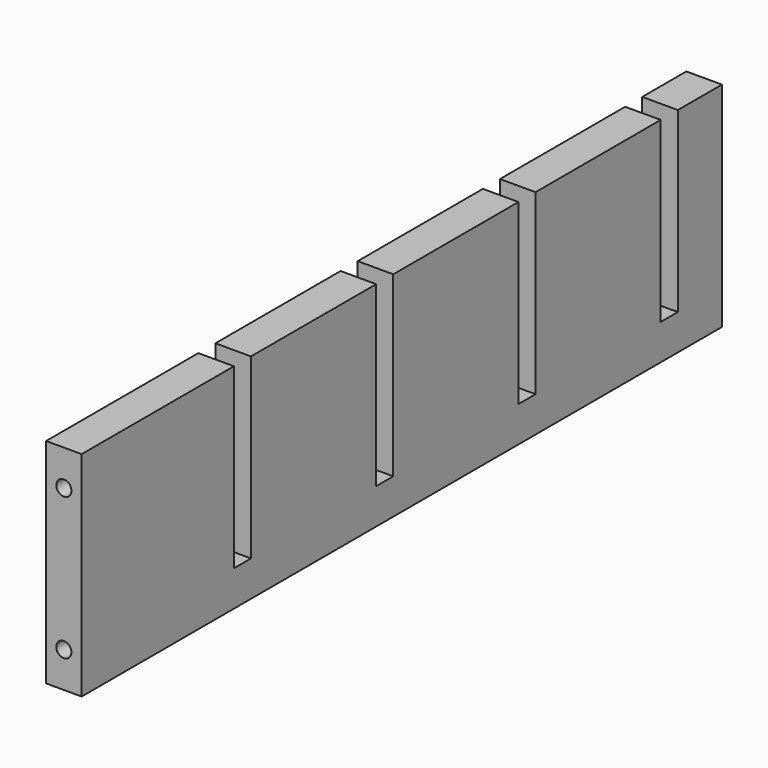
from build123d import *

# Parameters (mm, degrees)
F0_W     = 6.35
F0_H     = 142.875
F1_DEPTH = 38.1
F2_W     = 3.81
F2_H     = 31.75
F3_DEPTH = 6.351
F5_D     = 2.7051
F5_DEPTH = 15.0876
F5_TIP   = 0.8126940303
F8_D     = 2.7051
F8_DEPTH = 14.224
F8_TIP   = 0.8126940303
F9_D     = 2.7051
F9_DEPTH = 8.89
F9_TIP   = 0.8126940303


with BuildPart() as f1:
    # F0 (on Top) → F1 (new body)
    with BuildSketch(Plane.XY):
        Rectangle(F0_W, F0_H)
    extrude(amount=F1_DEPTH)

    # F2 (on face) → F3 (cut, through all)
    with BuildSketch(Plane(origin=(-3.175, 0, 0), x_dir=(0, -1, 0), z_dir=(-1, 0, 0))):
        with Locations((-59.69, 22.225)):
            Rectangle(F2_W, F2_H)
        with Locations((-27.94, 22.225)):
            Rectangle(F2_W, F2_H)
        with Locations((3.81, 22.225)):
            Rectangle(F2_W, F2_H)
        with Locations((35.56, 22.225)):
            Rectangle(F2_W, F2_H)
    extrude(amount=-F3_DEPTH, mode=Mode.SUBTRACT)

    # F5
    with Locations(Plane(origin=(0, 0, 0), x_dir=(1, 0, 0), z_dir=(0, 0, -1))):
        with Locations((0, 46.0375), (0, -46.0375)):
            Hole(F5_D / 2, depth=F5_DEPTH)
            with Locations((0, 0, -(F5_DEPTH + F5_TIP / 2))):  # 118° drill point
                Cone(0, F5_D / 2, F5_TIP, mode=Mode.SUBTRACT)

    # F8
    with Locations(Plane.XZ.offset(71.4375)):
        with Locations((0, 31.75), (0, 6.35)):
            Hole(F8_D / 2, depth=F8_DEPTH)
            with Locations((0, 0, -(F8_DEPTH + F8_TIP / 2))):  # 118° drill point
                Cone(0, F8_D / 2, F8_TIP, mode=Mode.SUBTRACT)

    # F9
    with Locations(Plane(origin=(0, 71.4375, 0), x_dir=(-1, 0, 0), z_dir=(0, 1, 0))):
        with Locations((0, 31.75), (0, 6.35)):
            Hole(F9_D / 2, depth=F9_DEPTH)
            with Locations((0, 0, -(F9_DEPTH + F9_TIP / 2))):  # 118° drill point
                Cone(0, F9_D / 2, F9_TIP, mode=Mode.SUBTRACT)


solid = f1.part
